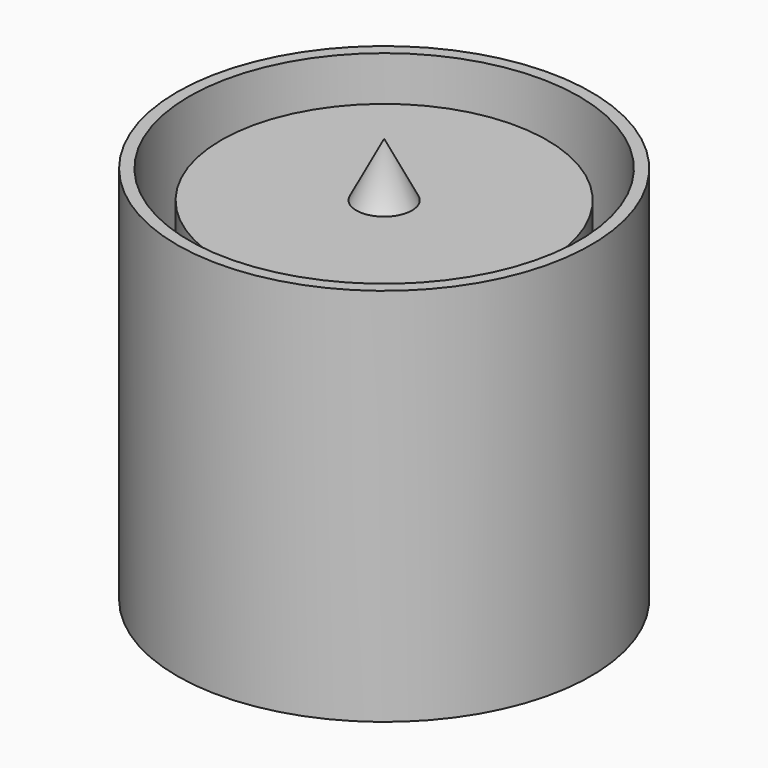
from build123d import *


with BuildPart() as f1:
    # F0 (on Front) → F1 (revolve)
    with BuildSketch(Plane.XZ):
        Polygon((-51.689, 0), (0, 0), (0, 3.175), (-50.0574027778, 3.175), (-51.689, 3.175), (-53.627099473, 3.175), (-51.689, 6.9464368122), (-51.689, 100.584), (-54.864, 100.584), (-54.864, 0), align=None)
        Polygon((-51.689, 0), (0, 0), (0, 3.175), (-50.0574027778, 3.175), (-51.689, 3.175), (-53.627099473, 3.175), (-51.689, 6.9464368122), (-51.689, 100.584), (-54.864, 100.584), (-54.864, 0), align=None)
        Polygon((-51.689, 0), (0, 0), (0, 3.175), (-50.0574027778, 3.175), (-51.689, 3.175), (-53.627099473, 3.175), (-51.689, 6.9464368122), (-51.689, 100.584), (-54.864, 100.584), (-54.864, 0), align=None)
    revolve(axis=Axis((0, 0, 27.9178853571), (0, 0, 1)))


with BuildPart() as f2:
    # F0 (on Front) → F2 (revolve)
    with BuildSketch(Plane.XZ):
        Polygon((-51.689, 3.175), (-50.0574027778, 3.175), (0, 100.584), (0, 107.5304368122), (-51.689, 6.9464368122), align=None)
        Polygon((-53.627099473, 3.175), (-51.689, 3.175), (-51.689, 6.9464368122), align=None)
    revolve(axis=Axis((0, 0, 27.9178853571), (0, 0, 1)))


with BuildPart() as f4:
    # F3 (on Front) → F4 (revolve)
    with BuildSketch(Plane.XZ):
        Polygon((-43.175, 0.6737808802), (-40, 7.8175308802), (-40, 90), (-3.474458169, 90), (-2.0633470579, 93.175), (-43.175, 93.175), align=None)
        Polygon((-3.474458169, 90), (0, 90), (0, 93.175), (-2.0633470579, 93.175), align=None)
        Polygon((-43.175, 0), (-40, 0), (-40, 7.8175308802), (-43.175, 0.6737808802), align=None)
    revolve(axis=Axis((0, 0, 45), (0, 0, 1)))


with BuildPart() as f5:
    # F3 (on Front) → F5 (revolve)
    with BuildSketch(Plane.XZ):
        Polygon((-40, 7.8175308802), (-40, 0), (0, 90), (-3.474458169, 90), align=None)
        Polygon((-3.474458169, 90), (0, 90), (0, 93.175), (-2.0633470579, 93.175), align=None)
        Polygon((-2.0633470579, 93.175), (0, 93.175), (0, 97.8175308802), align=None)
        Polygon((-43.175, 0), (-40, 0), (-40, 7.8175308802), (-43.175, 0.6737808802), align=None)
        Polygon((-3.474458169, 90), (0, 90), (0, 93.175), (-2.0633470579, 93.175), align=None)
    revolve(axis=Axis((0, 0, 45), (0, 0, 1)))


with BuildPart() as f7:
    # F6 (on Front) → F7 (revolve)
    with BuildSketch(Plane.XZ):
        Polygon((0, 70), (30, 0), (30, 8.060026537), (3.4542970873, 70), align=None)
        Polygon((0, 73.175), (0, 70), (3.4542970873, 70), (2.0935828016, 73.175), align=None)
        Polygon((0, 78.060026537), (0, 73.175), (2.0935828016, 73.175), align=None)
        Polygon((30, 8.060026537), (30, 0), (33.175, 0), (33.175, 0.6516932037), align=None)
        Polygon((33.175, 0.6516932037), (33.175, 0), (33.4542970873, 0), align=None)
        Polygon((0, 73.175), (0, 70), (3.4542970873, 70), (2.0935828016, 73.175), align=None)
    revolve(axis=Axis((0, 0, 35), (0, 0, 1)))


with BuildPart() as f8:
    # F6 (on Front) → F8 (revolve)
    with BuildSketch(Plane.XZ):
        Polygon((30, 70), (30, 8.060026537), (33.175, 0.6516932037), (33.175, 73.175), (2.0935828016, 73.175), (3.4542970873, 70), align=None)
        Polygon((0, 73.175), (0, 70), (3.4542970873, 70), (2.0935828016, 73.175), align=None)
        Polygon((30, 8.060026537), (30, 0), (33.175, 0), (33.175, 0.6516932037), align=None)
    revolve(axis=Axis((0, 0, 35), (0, 0, 1)))


solid = Compound([f1.part, f2.part, f4.part, f5.part, f7.part, f8.part])
